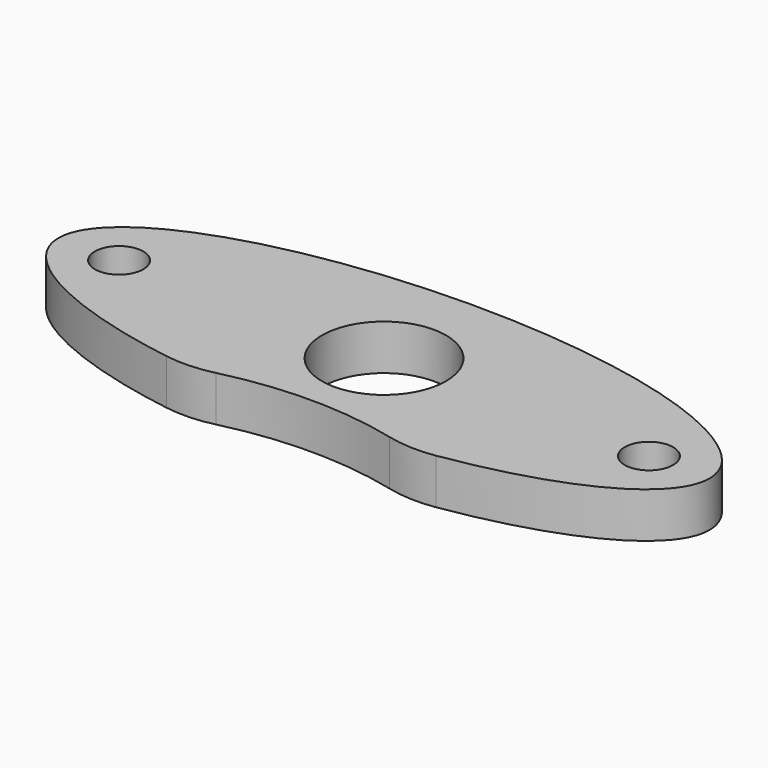
from build123d import *

# Parameters (mm, degrees)
F0_R     = 1.6
F0_R_2   = 4.1
F1_DEPTH = 3


with BuildPart() as f1:
    # F0 (on Top) → F1 (new body)
    with BuildSketch(Plane.XY):
        with BuildLine():
            ThreePointArc((-5.7331043854, -6.6948178701), (0, -6), (5.7331043854, -6.6948178701))
            ThreePointArc((5.7331043854, -6.6948178701), (7.308426526, -6.9193767864), (8.8970306476, -6.8277061893))
            add(Edge.make_bspline(
                [(8.8970306476, -6.8277061893), (33.8158522771, -2.8763755626), (16.9079261385, 4.6327372001), (0, 12.1418499627), (-16.9079261385, 4.6327372001), (-33.8158522771, -2.8763755626), (-8.8970306476, -6.8277061893)],
                knots=[1.9974374789, 1.9974374789, 1.9974374789, 3.8074051466, 3.8074051466, 5.6173728142, 5.6173728142, 7.4273404818, 7.4273404818, 7.4273404818], degree=2, weights=[1, 0.6176982933, 1, 0.6176982933, 1, 0.6176982933, 1]))
            ThreePointArc((-8.8970306476, -6.8277061893), (-7.308426526, -6.9193767864), (-5.7331043854, -6.6948178701))
        make_face()
        with Locations((-17.5, 0)):
            Circle(F0_R, mode=Mode.SUBTRACT)
        Circle(F0_R_2, mode=Mode.SUBTRACT)
        with Locations((17.5, 0)):
            Circle(F0_R, mode=Mode.SUBTRACT)
    extrude(amount=F1_DEPTH)


solid = f1.part
